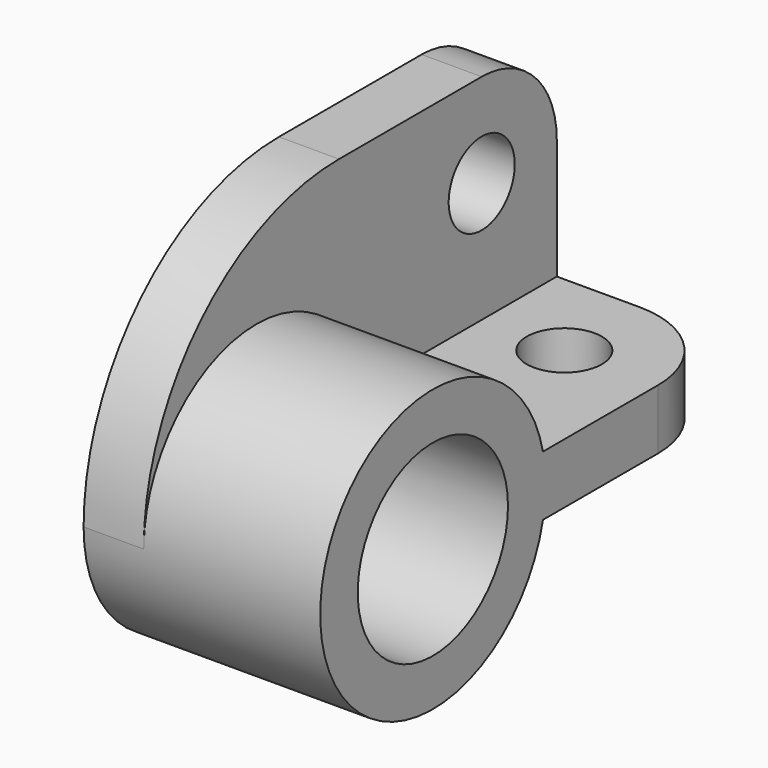
from build123d import *

# Parameters (mm, degrees)
F0_R     = 25
F1_DEPTH = 63
F2_R     = 11
F3_DEPTH = 16
F4_R     = 10
F5_DEPTH = 100
F6_R     = 25


with BuildPart() as f1:
    # F0 (on Right) → F1 (new body)
    with BuildSketch(Plane.YZ):
        with BuildLine():
            Line((100, 8), (36.63673, 8))
            ThreePointArc((36.63673, 8), (-37.5, 0), (36.63673, -8))
            Line((36.63673, -8), (100, -8))
            Line((100, -8), (100, 8))
        make_face()
        Circle(F0_R, mode=Mode.SUBTRACT)
    extrude(amount=F1_DEPTH)

    # F2 (on face) → F3 (join)
    with BuildSketch(Plane(origin=(0, 0, 0), x_dir=(0, -1, 0), z_dir=(-1, 0, 0))):
        with BuildLine():
            Line((-27.5, 65), (-75, 65))
            ThreePointArc((-75, 65), (-92.67767, 57.67767), (-100, 40))
            Line((-100, 40), (-100, 8))
            Line((-100, 8), (-36.63673, 8))
            ThreePointArc((-36.63673, 8), (4.023221, 37.283558), (37.5, 0))
            ThreePointArc((37.5, 0), (18.461941, 45.961941), (-27.5, 65))
        make_face()
        with Locations((-75, 40)):
            Circle(F2_R, mode=Mode.SUBTRACT)
    extrude(amount=-F3_DEPTH)

    # F4 (on face) → F5 (cut)
    with BuildSketch(Plane.XY.offset(8)):
        with Locations((38, 75)):
            Circle(F4_R)
    extrude(amount=-F5_DEPTH, mode=Mode.SUBTRACT)

    # F6
    f6_edges = [f1.edges().sort_by_distance(p)[0] for p in [
        (63, 100, 0),
    ]]
    fillet(f6_edges, radius=F6_R)


solid = f1.part
